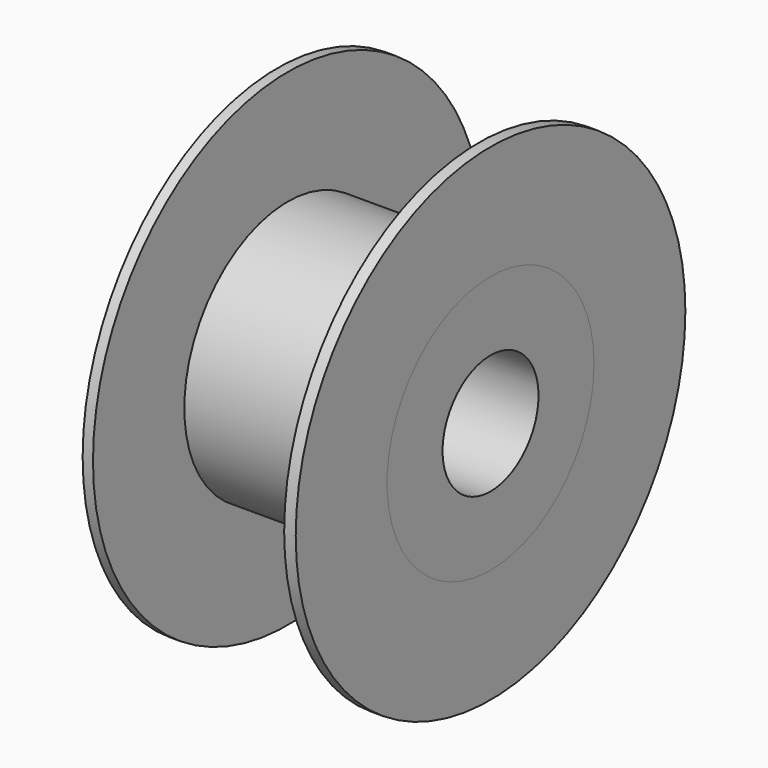
from build123d import *

# Parameters (mm, degrees)
F0_R     = 101.6
F0_R_2   = 53.975
F0_R_3   = 25.019
F1_DEPTH = 4.318
F2_DEPTH = 88.9
F3_START = 84.074
F3_DEPTH = 4.826


with BuildPart() as f1:
    # F0 (on Right) → F1 (new body)
    with BuildSketch(Plane.YZ):
        Circle(F0_R)
        Circle(F0_R_2, mode=Mode.SUBTRACT)
        Circle(F0_R_2)
        Circle(F0_R_3, mode=Mode.SUBTRACT)
    extrude(amount=F1_DEPTH)

    # F0 (on Right) → F2 (join)
    with BuildSketch(Plane.YZ):
        Circle(F0_R_2)
        Circle(F0_R_3, mode=Mode.SUBTRACT)
    extrude(amount=F2_DEPTH)


with BuildPart() as f3:
    # F0 (on Right) → F3 (new body)
    with BuildSketch(Plane.YZ.offset(F3_START)):
        Circle(F0_R)
        Circle(F0_R_2, mode=Mode.SUBTRACT)
    extrude(amount=F3_DEPTH)


solid = Compound([f1.part, f3.part])
